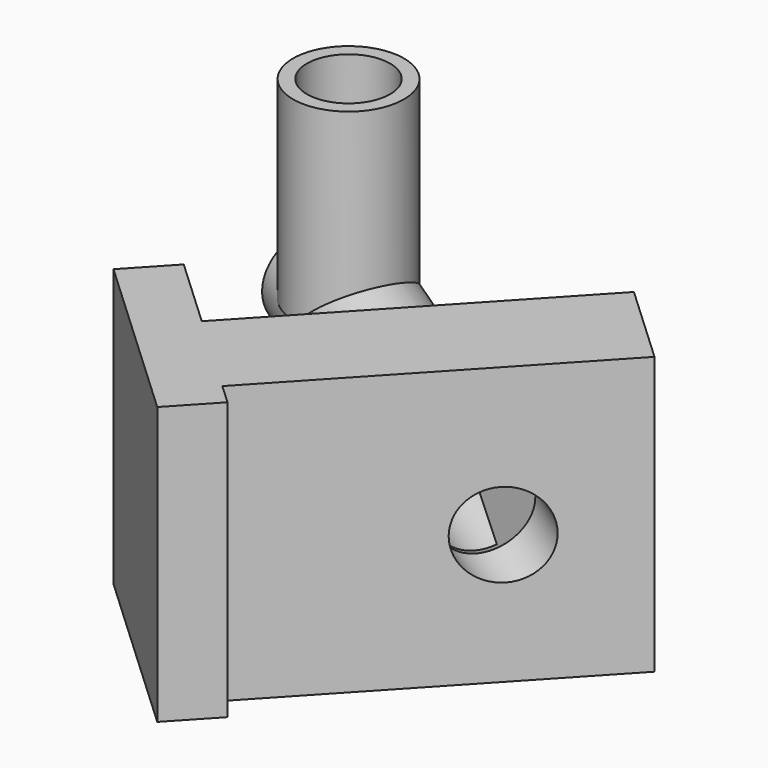
from build123d import *

# Parameters (mm, degrees)
CYLINDER058_R               = 3
CYLINDER058_DEPTH           = 14
CYLINDER059_R               = 4
CYLINDER059_DEPTH           = 14
CYLINDER057_R               = 3
CYLINDER057_DEPTH           = 25
CYLINDER057_ROLL_ANGLE      = -80.307838
CYLINDER057_PITCH_ANGLE     = -6.032922
CYLINDER057_PLACEMENT_ANGLE = 60.76787
CYLINDER055_R               = 4
CYLINDER055_DEPTH           = 23
CYLINDER055_ROLL_ANGLE      = -80.242002
CYLINDER055_PITCH_ANGLE     = -5.711725
CYLINDER055_PLACEMENT_ANGLE = 60.604575
CYLINDER056_R               = 3
CYLINDER056_DEPTH           = 20
CYLINDER056_ROLL_ANGLE      = -80.307852
CYLINDER056_PITCH_ANGLE     = -6.032925
CYLINDER056_PLACEMENT_ANGLE = 60.767852
BOX022_W                    = 25
BOX022_H                    = 8
BOX022_DEPTH                = 20
BOX022_PLACEMENT_ANGLE      = 47
BOX021_W                    = 4
BOX021_H                    = 17
BOX021_DEPTH                = 20
BOX021_PLACEMENT_ANGLE      = 47


with BuildPart() as cylindre054:
    # Cylinder058 → Cylinder058 (new body)
    with BuildSketch(Plane(origin=(-18, 17, -67), x_dir=(1, 0, 0), z_dir=(0, 0, 1))):
        Circle(CYLINDER058_R)
    extrude(amount=CYLINDER058_DEPTH)


with BuildPart() as cylindre055:
    # Cylinder059 → Cylinder059 (new body)
    with BuildSketch(Plane(origin=(-18, 17, -67), x_dir=(1, 0, 0), z_dir=(0, 0, 1))):
        Circle(CYLINDER059_R)
    extrude(amount=CYLINDER059_DEPTH)


with BuildPart() as cylindre053:
    # Cylinder057 → Cylinder057 (new body)
    with BuildSketch(Plane.XY):
        Circle(CYLINDER057_R)
    extrude(amount=CYLINDER057_DEPTH)


with BuildPart() as cylindre053_1:
    # Cylinder057 roll: moved
    add(cylindre053.part.rotate(Axis((0, 0, 0), (1, 0, 0)), CYLINDER057_ROLL_ANGLE))


with BuildPart() as cylindre053_2:
    # Cylinder057 pitch: moved
    add(cylindre053_1.part.rotate(Axis((0, 0, 0), (0, 1, 0)), CYLINDER057_PITCH_ANGLE))


with BuildPart() as cylindre053_3:
    # Cylinder057 placement: moved
    add(cylindre053_2.part.moved(Location((-3, 6, -72))).rotate(Axis((-3, 6, -72), (0, 0, 1)), CYLINDER057_PLACEMENT_ANGLE))


with BuildPart() as cut039:
    # Cylinder055 → Cylinder055 (new body)
    with BuildSketch(Plane.XY):
        Circle(CYLINDER055_R)
    extrude(amount=CYLINDER055_DEPTH)


with BuildPart() as cut039_1:
    # Cylinder055 roll: moved
    add(cut039.part.rotate(Axis((0, 0, 0), (1, 0, 0)), CYLINDER055_ROLL_ANGLE))


with BuildPart() as cut039_2:
    # Cylinder055 pitch: moved
    add(cut039_1.part.rotate(Axis((0, 0, 0), (0, 1, 0)), CYLINDER055_PITCH_ANGLE))


with BuildPart() as cut039_3:
    # Cylinder055 placement: moved
    add(cut039_2.part.moved(Location((-3, 6, -72))).rotate(Axis((-3, 6, -72), (0, 0, 1)), CYLINDER055_PLACEMENT_ANGLE))

    # Cut038: cut Cylindre053
    add(cylindre053_3.part, mode=Mode.SUBTRACT)


with BuildPart() as cut039_4:
    # Cut038 placement: moved
    add(cut039_3.part.moved(Location((2, 2, 1))))

    # Fusion027: union Cylindre055
    add(cylindre055.part)

    # Cut039: cut Cylindre054
    add(cylindre054.part, mode=Mode.SUBTRACT)


with BuildPart() as cylindre052:
    # Cylinder056 → Cylinder056 (new body)
    with BuildSketch(Plane.XY):
        Circle(CYLINDER056_R)
    extrude(amount=CYLINDER056_DEPTH)


with BuildPart() as cylindre052_1:
    # Cylinder056 roll: moved
    add(cylindre052.part.rotate(Axis((0, 0, 0), (1, 0, 0)), CYLINDER056_ROLL_ANGLE))


with BuildPart() as cylindre052_2:
    # Cylinder056 pitch: moved
    add(cylindre052_1.part.rotate(Axis((0, 0, 0), (0, 1, 0)), CYLINDER056_PITCH_ANGLE))


with BuildPart() as cylindre052_3:
    # Cylinder056 placement: moved
    add(cylindre052_2.part.moved(Location((3, 6, -72))).rotate(Axis((3, 6, -72), (0, 0, 1)), CYLINDER056_PLACEMENT_ANGLE))


with BuildPart() as cube022:
    # Box022 → Box022 (new body)
    with BuildSketch(Plane.XY):
        with Locations((12.5, 4)):
            Rectangle(BOX022_W, BOX022_H)
    extrude(amount=BOX022_DEPTH)


with BuildPart() as cube022_1:
    # Box022 placement: moved
    add(cube022.part.moved(Location((-10, -5, -81))).rotate(Axis((-10, -5, -81), (0, 0, 1)), BOX022_PLACEMENT_ANGLE))


with BuildPart() as fusion028:
    # Box021 → Box021 (new body)
    with BuildSketch(Plane.XY):
        with Locations((2, 8.5)):
            Rectangle(BOX021_W, BOX021_H)
    extrude(amount=BOX021_DEPTH)


with BuildPart() as fusion028_1:
    # Box021 placement: moved
    add(fusion028.part.moved(Location((-11, -9, -81))).rotate(Axis((-11, -9, -81), (0, 0, 1)), BOX021_PLACEMENT_ANGLE))

    # Fusion023: union Cube022
    add(cube022_1.part)

    # Cut037: cut Cylindre052
    add(cylindre052_3.part, mode=Mode.SUBTRACT)

    # Fusion028: union Cut039
    add(cut039_4.part)


solid = fusion028_1.part
